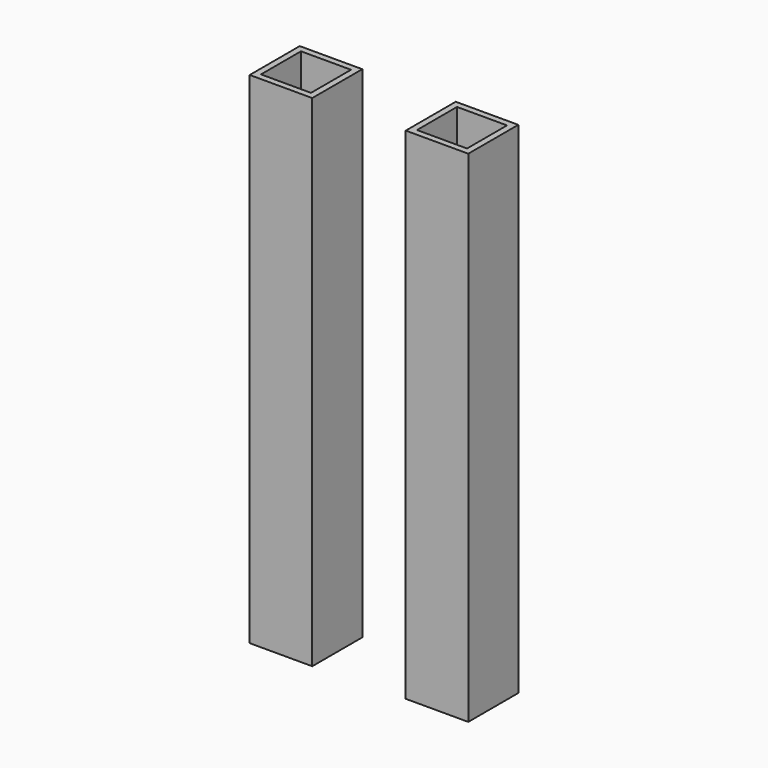
from build123d import *

# Parameters (mm, degrees)
F0_W     = 25.4
F0_H     = 203.2
F1_DEPTH = 25.4
F2_T     = -2.54
F2_2_T   = -2.54


with BuildPart() as f1:
    # F0 (on Front) → F1 (new body)
    with BuildSketch(Plane.XZ):
        with Locations((36.8255126894, -1.9285741091)):
            Rectangle(F0_W, F0_H)
    extrude(amount=F1_DEPTH)

    # F2#2
    f2_2_openings = [f1.faces().sort_by_distance(p)[0] for p in [
        (36.825513, -12.7, 99.671426),
        (36.825513, -12.7, -103.528574),
    ]]
    offset(amount=F2_2_T, openings=f2_2_openings)


with BuildPart() as f1b:
    # F0 (on Front) → F1, piece 2 (new body)
    with BuildSketch(Plane.XZ):
        with Locations((-26.5484208936, -2.6387274265)):
            Rectangle(F0_W, F0_H)
    extrude(amount=F1_DEPTH)

    # F2
    f2_openings = [f1b.faces().sort_by_distance(p)[0] for p in [
        (-26.548421, -12.7, 98.961273),
        (-26.548421, -12.7, -104.238727),
    ]]
    offset(amount=F2_T, openings=f2_openings)


solid = Compound([f1.part, f1b.part])
